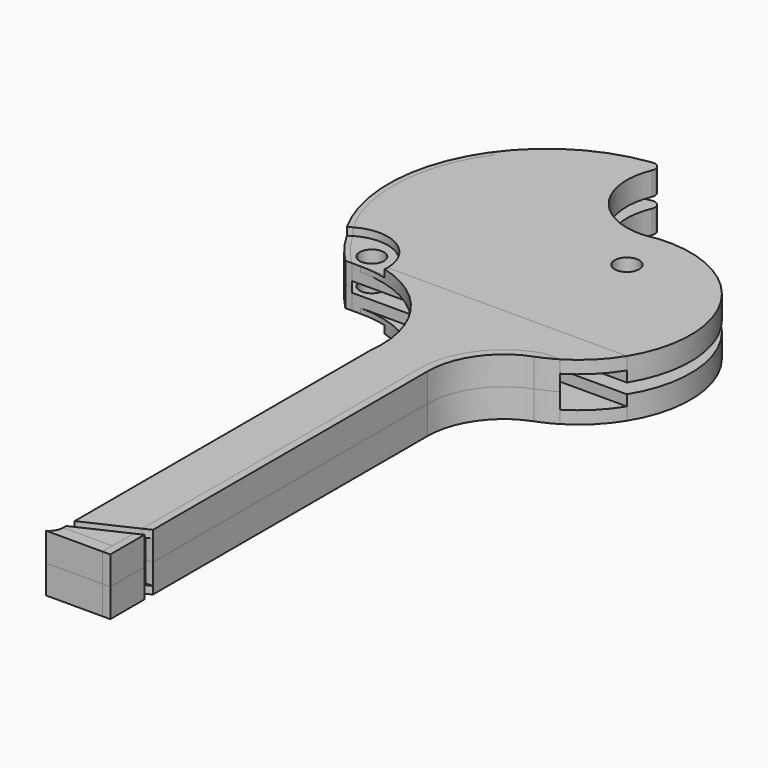
from build123d import *

# Parameters (mm, degrees)
F1_DEPTH  = 7.5
F2_DEPTH  = 7.5
F3_DEPTH  = 3.33
F0_R      = 3.185
F0_R_2    = 3.23
F4_DEPTH  = 6.14
F5_DEPTH  = 7.5
F8_DEPTH  = 2
F9_W      = 2.7816444635
F9_H      = 5.5
F10_DEPTH = 2
F14_DEPTH = 2
F17_DEPTH = 2


with BuildPart() as f1:
    # F0 (on Top) → F1 (new body)
    with BuildSketch(Plane.XY):
        with BuildLine():
            Line((8.8088196781, -59.1273443937), (8.8088196781, -17.9198504258))
            ThreePointArc((8.8088196781, -17.9198504258), (12.3780078725, -6.516849794), (21.811662019, 0.8162053142))
            ThreePointArc((21.811662019, 0.8162053142), (24.3493437167, 1.9021505043), (26.7740816538, 3.2211468239))
            Line((26.7740816538, 3.2211468239), (22.5007778988, 3.2211468239))
            ThreePointArc((22.5007778988, 3.2211468239), (11.1184075705, -4.7371922999), (6.7467899482, -17.9198504258))
            Line((6.7467899482, -17.9198504258), (6.7467899482, -59.1273443937))
            Line((6.7467899482, -59.1273443937), (6.7467899482, -119.0898504258))
            Line((6.7467899482, -119.0898504258), (6.7467899482, -122.3384766844))
            Line((6.7467899482, -122.3384766844), (8.8088196781, -122.3384766844))
            Line((8.8088196781, -122.3384766844), (8.8088196781, -59.1273443937))
        make_face()
    extrude(amount=-F1_DEPTH)


with BuildPart() as f2:
    # F0 (on Top) → F2 (new body)
    with BuildSketch(Plane.XY):
        with BuildLine():
            Line((-8.0824800033, -122.3384766844), (6.7467899482, -122.3384766844))
            Line((6.7467899482, -122.3384766844), (6.7467899482, -119.0898504258))
            Line((6.7467899482, -119.0898504258), (-6.1911803219, -119.0898504258))
            ThreePointArc((-6.1911803219, -119.0898504258), (-6.6984458535, -120.9693840816), (-8.0824800033, -122.3384766844))
        make_face()
    extrude(amount=-F2_DEPTH)


with BuildPart() as f3:
    # F0 (on Top) → F3 (new body)
    with BuildSketch(Plane.XY):
        with BuildLine():
            Line((22.5007778988, 3.2211468239), (26.7740816538, 3.2211468239))
            ThreePointArc((26.7740816538, 3.2211468239), (32.2391411967, 7.4914065207), (36.5526747632, 12.9223752977))
            Line((36.5526747632, 12.9223752977), (-33.4873252368, 12.9223752977))
            ThreePointArc((-33.4873252368, 12.9223752977), (-12.9834206648, 3.748310398), (-6.1598180011, -17.6529048985))
            ThreePointArc((-6.1598180011, -17.6529048985), (-6.1833335846, -17.9320363919), (-6.1911803219, -18.2120467524))
            Line((-6.1911803219, -18.2120467524), (-6.1911803219, -119.0898504258))
            Line((-6.1911803219, -119.0898504258), (6.7467899482, -119.0898504258))
            Line((6.7467899482, -119.0898504258), (6.7467899482, -59.1273443937))
            Line((6.7467899482, -59.1273443937), (6.7467899482, -17.9198504258))
            ThreePointArc((6.7467899482, -17.9198504258), (11.1184075705, -4.7371922999), (22.5007778988, 3.2211468239))
        make_face()
    extrude(amount=-F3_DEPTH)


with BuildPart() as f4:
    # F0 (on Top) → F4 (new body)
    with BuildSketch(Plane.XY):
        with BuildLine():
            Line((-33.4873252368, 12.9223752977), (36.5526747632, 12.9223752977))
            ThreePointArc((36.5526747632, 12.9223752977), (36.5529133557, 43.8311248311), (8.9213631661, 57.6820537492))
            ThreePointArc((8.9213631661, 57.6820537492), (8.8919123245, 57.6781849796), (8.8628925916, 57.6718466396))
            ThreePointArc((8.8628925916, 57.6718466396), (-8.2675679301, 62.9735147852), (-11.0515846019, 80.688187065))
            ThreePointArc((-11.0515846019, 80.688187065), (-11.2960308683, 82.6744411626), (-13.1389592812, 83.4545528098))
            ThreePointArc((-13.1389592812, 83.4545528098), (-29.5363204866, 77.7688440903), (-42.1843247147, 65.8848747538))
            Line((-42.1843247147, 65.8848747538), (-40.5813219482, 65.8848747538))
            ThreePointArc((-40.5813219482, 65.8848747538), (-48.1638587582, 38.5018882849), (-35.7940839918, 12.9223752977))
            Line((-35.7940839918, 12.9223752977), (-33.4873252368, 12.9223752977))
        make_face()
        with Locations((-34.428260039, 17.7449777678)):
            Circle(F0_R, mode=Mode.SUBTRACT)
        with Locations((11.1718727276, 44.6576625109)):
            Circle(F0_R_2, mode=Mode.SUBTRACT)
    extrude(amount=-F4_DEPTH)


with BuildPart() as f5:
    # F0 (on Top) → F5 (new body)
    with BuildSketch(Plane.XY):
        with BuildLine():
            Line((-37.5471541768, 12.9223752977), (-35.7940839918, 12.9223752977))
            ThreePointArc((-35.7940839918, 12.9223752977), (-48.1638587582, 38.5018882849), (-40.5813219482, 65.8848747538))
            Line((-40.5813219482, 65.8848747538), (-42.1843247147, 65.8848747538))
            ThreePointArc((-42.1843247147, 65.8848747538), (-49.436528488, 38.5656475619), (-37.5471541768, 12.9223752977))
        make_face()
    extrude(amount=-F5_DEPTH)


with BuildPart() as f8_tool:
    # F7 (on face) → F8 (new body)
    with BuildSketch(Plane.XY):
        Polygon((-6.1911803219, -115.3242123343), (-6.1911803219, -118.1058567978), (6.7467899482, -112.0727821798), (6.7467899482, -109.2911377163), align=None)
        Polygon((6.7467899482, -109.2911377163), (6.7467899482, -112.0727821798), (8.8088196781, -111.1112419255), (8.8088196781, -108.3295974619), align=None)
    extrude(amount=-F8_DEPTH)


with BuildPart() as f1_1:
    add(f1.part)

    # F8: cut by f8_tool
    add(f8_tool.part, mode=Mode.SUBTRACT)

    # F9 (on face) → F10 (cut)
    with BuildSketch(Plane.YZ.offset(8.8088196781)):
        with Locations((-109.7204196937, -4.75)):
            Rectangle(F9_W, F9_H)
    extrude(amount=-F10_DEPTH, mode=Mode.SUBTRACT)


with BuildPart() as f3_1:
    add(f3.part)

    # F8: cut by f8_tool
    add(f8_tool.part, mode=Mode.SUBTRACT)


with BuildPart() as f11_1:
    # F11: instance of F4
    add(f4.part.mirror(Plane(origin=(9.0970071096, -56.098686688, -7.5), x_dir=(1, 0, 0), z_dir=(0, 0, -1))))


with BuildPart() as f11_2:
    # F11: instance of F3
    add(f3_1.part.mirror(Plane(origin=(9.0970071096, -56.098686688, -7.5), x_dir=(1, 0, 0), z_dir=(0, 0, -1))))


with BuildPart() as f11_3:
    # F11: instance of F1
    add(f1_1.part.mirror(Plane(origin=(9.0970071096, -56.098686688, -7.5), x_dir=(1, 0, 0), z_dir=(0, 0, -1))))


with BuildPart() as f11_4:
    # F11: instance of F5
    add(f5.part.mirror(Plane(origin=(9.0970071096, -56.098686688, -7.5), x_dir=(1, 0, 0), z_dir=(0, 0, -1))))


with BuildPart() as f11_5:
    # F11: instance of F2
    add(f2.part.mirror(Plane(origin=(9.0970071096, -56.098686688, -7.5), x_dir=(1, 0, 0), z_dir=(0, 0, -1))))


with BuildPart() as f14_tool:
    # F13 (on offset) → F14 (new body)
    with BuildSketch(Plane.XY):
        with BuildLine():
            ThreePointArc((-26.437154177, 12.9223752977), (-32.5957619895, 22.868018334), (-44.2437816128, 21.7873220536))
            ThreePointArc((-44.2437816128, 21.7873220536), (-41.1928919207, 17.1301730012), (-37.5471541769, 12.9223752978))
            Line((-37.547154177, 12.9223752977), (-35.7940839918, 12.9223752977))
            Line((-35.7940839918, 12.9223752977), (-33.4873252368, 12.9223752977))
            Line((-33.4873252368, 12.9223752977), (-26.437154177, 12.9223752977))
        make_face()
        with BuildLine():
            Line((-26.437154177, 12.003291159), (-26.437154177, 12.9223752977))
            Line((-26.437154177, 12.9223752977), (-33.4873252368, 12.9223752977))
            ThreePointArc((-33.4873252368, 12.9223752977), (-29.9324121708, 12.6916362538), (-26.437154177, 12.003291159))
        make_face()
    extrude(amount=-F14_DEPTH)


with BuildPart() as f3_2:
    add(f3_1.part)

    # F14: cut by f14_tool
    add(f14_tool.part, mode=Mode.SUBTRACT)


with BuildPart() as f4_1:
    add(f4.part)

    # F14: cut by f14_tool
    add(f14_tool.part, mode=Mode.SUBTRACT)


with BuildPart() as f5_1:
    add(f5.part)

    # F14: cut by f14_tool
    add(f14_tool.part, mode=Mode.SUBTRACT)


with BuildPart() as f17_tool:
    # F16 (on offset) → F17 (new body)
    with BuildSketch(Plane(origin=(0, 0, -15), x_dir=(1, 0, 0), z_dir=(0, 0, -1))):
        with BuildLine():
            ThreePointArc((-26.4371541768, -12.003291159), (-29.9324121707, -12.6916362538), (-33.4873252368, -12.9223752977))
            Line((-33.4873252368, -12.9223752977), (-26.4371541768, -12.9223752977))
            Line((-26.4371541768, -12.9223752977), (-26.4371541768, -12.003291159))
        make_face()
        with BuildLine():
            Line((-33.4873252368, -12.9223752977), (-35.7940839918, -12.9223752977))
            Line((-35.7940839918, -12.9223752977), (-37.5471541768, -12.9223752977))
            ThreePointArc((-37.5471541768, -12.9223752977), (-41.1928919206, -17.1301730011), (-44.2437816127, -21.7873220535))
            ThreePointArc((-44.2437816127, -21.7873220535), (-32.5957619894, -22.8680183341), (-26.4371541768, -12.9223752977))
            Line((-26.4371541768, -12.9223752977), (-33.4873252368, -12.9223752977))
        make_face()
    extrude(amount=-F17_DEPTH)


with BuildPart() as f11_1_1:
    add(f11_1.part)

    # F17: cut by f17_tool
    add(f17_tool.part, mode=Mode.SUBTRACT)


with BuildPart() as f11_2_1:
    add(f11_2.part)

    # F17: cut by f17_tool
    add(f17_tool.part, mode=Mode.SUBTRACT)


with BuildPart() as f11_4_1:
    add(f11_4.part)

    # F17: cut by f17_tool
    add(f17_tool.part, mode=Mode.SUBTRACT)


solid = Compound([f2.part, f1_1.part, f11_3.part, f11_5.part, f3_2.part, f4_1.part, f5_1.part, f11_1_1.part, f11_2_1.part, f11_4_1.part])
